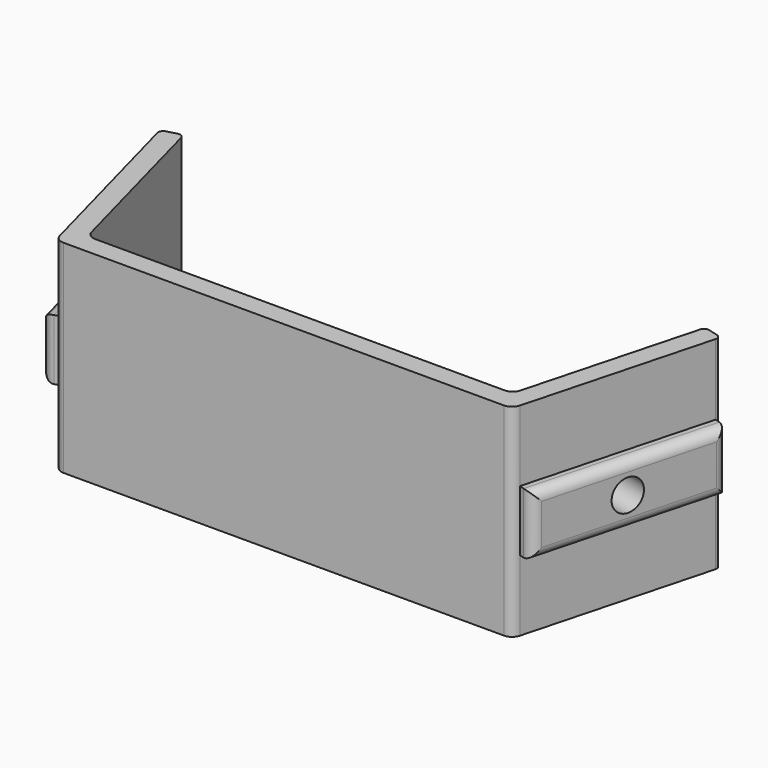
from build123d import *

# Parameters (mm, degrees)
F1_DEPTH = 20
F2_W     = 18.732673012
F2_H     = 6
F3_DEPTH = 1.5
F4_W     = 18.732673012
F4_H     = 6
F5_DEPTH = 1.5
F6_R     = 1.55
F7_DEPTH = 12.5
F8_R     = 1.55
F9_DEPTH = 12.5
F10_R    = 1


with BuildPart() as f1:
    # F0 (on Top) → F1 (new body)
    with BuildSketch(Plane.XY):
        with BuildLine():
            ThreePointArc((-0.1985988383, 0.7411809549), (0.158565559, 0.2066466597), (0.767326988, 0))
            Line((0.767326988, 0), (44.232673012, 0))
            ThreePointArc((44.232673012, 0), (44.841434441, 0.2066466597), (45.1985988383, 0.7411809549))
            Line((45.1985988383, 0.7411809549), (50.0469713795, 18.8355536126))
            ThreePointArc((50.0469713795, 18.8355536126), (49.9970211682, 19.2149631352), (49.6934179889, 19.4479260483))
            Line((49.6934179889, 19.4479260483), (48.7274921626, 19.7067450934))
            ThreePointArc((48.7274921626, 19.7067450934), (48.3480826401, 19.6567948822), (48.1151197269, 19.3531917028))
            Line((48.1151197269, 19.3531917028), (43.6639448624, 2.7411809549))
            ThreePointArc((43.6639448624, 2.7411809549), (43.3067804651, 2.2066466597), (42.6980190361, 2))
            Line((42.6980190361, 2), (2.3019809639, 2))
            ThreePointArc((2.3019809639, 2), (1.6932195349, 2.2066466597), (1.3360551376, 2.7411809549))
            Line((1.3360551376, 2.7411809549), (-3.1151197269, 19.3531917028))
            ThreePointArc((-3.1151197269, 19.3531917028), (-3.3480826401, 19.6567948822), (-3.7274921626, 19.7067450934))
            Line((-3.7274921626, 19.7067450934), (-4.6934179889, 19.4479260483))
            ThreePointArc((-4.6934179889, 19.4479260483), (-4.9970211682, 19.2149631352), (-5.0469713795, 18.8355536126))
            Line((-5.0469713795, 18.8355536126), (-0.1985988383, 0.7411809549))
        make_face()
    extrude(amount=F1_DEPTH)

    # F2 (on face) → F3 (join)
    with BuildSketch(Plane(origin=(41.9855715851, -11.25, 0), x_dir=(0.2588190451, 0.9659258263, 0), z_dir=(0.9659258263, -0.2588190451, 0))):
        with Locations((21.7805205236, 10)):
            Rectangle(F2_W, F2_H)
    extrude(amount=F3_DEPTH)

    # F4 (on face) → F5 (join)
    with BuildSketch(Plane(origin=(0, 0, 0), x_dir=(0.2588190451, -0.9659258263, 0), z_dir=(-0.9659258263, -0.2588190451, 0))):
        with Locations((-10.133663494, 10)):
            Rectangle(F4_W, F4_H)
    extrude(amount=F5_DEPTH)

    # F6 (on face) → F7 (cut, symmetric)
    with BuildSketch(Plane(origin=(0, 0, 0), x_dir=(0.2588190451, -0.9659258263, 0), z_dir=(-0.9659258263, -0.2588190451, 0))):
        with Locations((-10, 10)):
            Circle(F6_R)
    extrude(amount=F7_DEPTH, both=True, mode=Mode.SUBTRACT)

    # F8 (on face) → F9 (cut, symmetric)
    with BuildSketch(Plane(origin=(41.9855715851, -11.25, 0), x_dir=(0.2588190451, 0.9659258263, 0), z_dir=(0.9659258263, -0.2588190451, 0))):
        with Locations((21.6468570296, 10)):
            Circle(F8_R)
    extrude(amount=F9_DEPTH, both=True, mode=Mode.SUBTRACT)

    # F10
    f10_edges = [f1.edges().sort_by_distance(p)[0] for p in [
        (-1.647488, 0.352952, 10),
        (-4.071674, 9.400139, 7),
        (-4.071674, 9.400139, 13),
        (-6.49586, 18.447325, 10),
        (51.49586, 18.447325, 10),
        (49.071674, 9.400139, 7),
        (49.071674, 9.400139, 13),
        (46.647488, 0.352952, 10),
    ]]
    fillet(f10_edges, radius=F10_R)


solid = f1.part
